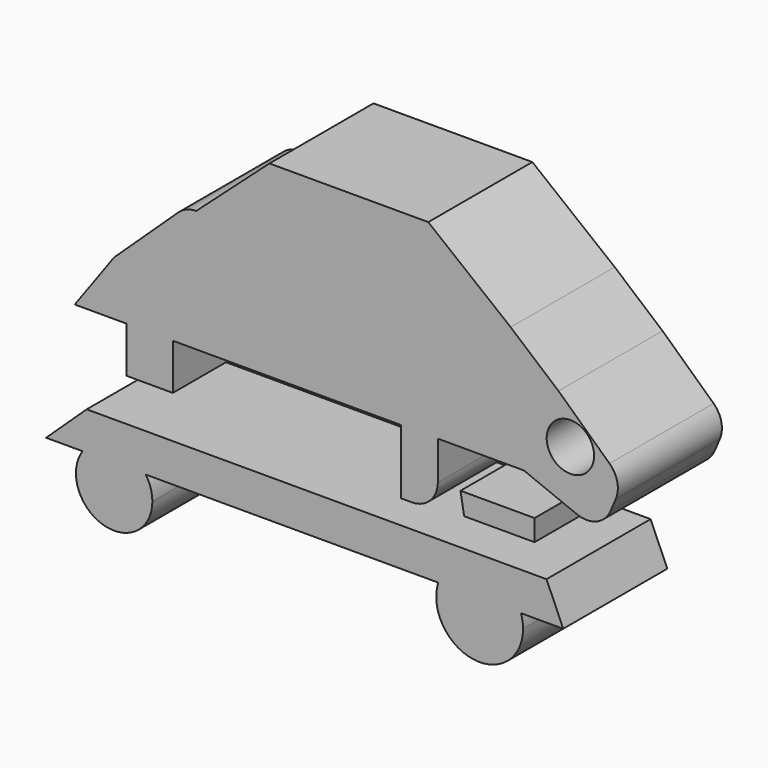
from build123d import *

# Parameters (mm, degrees)
F0_R     = 5.7856185804
F1_DEPTH = 31.75


with BuildPart() as f1:
    # F0 (on Front) → F1 (new body)
    with BuildSketch(Plane.XZ):
        Polygon((-18.945902586, 32.4995070696), (-36.8299595613, 16.4683610201), (-21.8606572598, 16.4683610201), align=None)
        with BuildLine():
            Line((-21.8606572598, 16.4683610201), (-36.8299595613, 16.4683610201))
            ThreePointArc((-36.8299595613, 16.4683610201), (-39.1716298113, 16.0208249497), (-41.1832270213, 14.7412997414))
            Line((-41.1832270213, 14.7412997414), (-56.8377040327, 0))
            Line((-56.8377040327, 0), (-31.4793474972, 0))
            Line((-31.4793474972, 0), (-21.8606572598, 16.4683610201))
        make_face()
        Polygon((-18.945902586, 32.4995070696), (-21.8606572598, 16.4683610201), (0, 16.4683610201), (0, 32.4995070696), align=None)
        Polygon((0, 32.4995070696), (0, 16.4683610201), (18.9459007233, 16.4683610201), (19.8203269392, 32.4995070696), align=None)
        Polygon((-38.1832793355, -13.2621303201), (-31.4793474972, 0), (-56.8377040327, 0), (-66.4563924074, -13.2621303201), (-53.8759827614, -13.2621303201), (-53.8759827614, -24.4669094682), (-42.5122864544, -24.4669094682), (-42.5122864544, -13.2621303201), align=None)
        Polygon((-5.5380342528, 0), (-31.4793474972, 0), (-38.1832793355, -13.2621303201), (-11.6590168327, -13.2621303201), align=None)
        Polygon((19.8203269392, 32.4995070696), (18.9459007233, 16.4683610201), (39.9321317673, 16.4683610201), align=None)
        Polygon((39.9321317673, 16.4683610201), (18.9459007233, 16.4683610201), (14.8652456701, 0), (37.6003272831, 0), align=None)
        Polygon((14.8652456701, 0), (-5.5380342528, 0), (-11.6590168327, -13.2621303201), (13.1163932383, -13.2621303201), align=None)
        Polygon((51.5911467373, 6.5581966192), (39.9321317673, 16.4683610201), (37.6003272831, 0), (47.0716502985, -4.0392414176), align=None)
        with BuildLine():
            Line((37.6003272831, 0), (14.8652456701, 0))
            Line((14.8652456701, 0), (13.1163932383, -13.2621303201))
            Line((13.1163932383, -13.2621303201), (13.1163932383, -29.0018040687))
            Line((13.1163932383, -29.0018040687), (15.8021295607, -29.0018040687))
            ThreePointArc((15.8021295607, -29.0018040687), (20.2922576212, -27.1419321292), (22.1521295607, -22.6518040687))
            Line((22.1521295607, -22.6518040687), (22.1521295607, -13.2621303201))
            Line((22.1521295607, -13.2621303201), (37.6003272831, -13.2621303201))
            Line((37.6003272831, -13.2621303201), (37.6003272831, 0))
        make_face()
        with BuildLine():
            Line((64.0501111657, -4.9778790706), (51.5911467373, 6.5581966192))
            Line((51.5911467373, 6.5581966192), (47.0716502985, -4.0392414176))
            Line((47.0716502985, -4.0392414176), (43.138358742, -13.2621303201))
            Line((43.138358742, -13.2621303201), (56.1124610001, -18.4747663982))
            ThreePointArc((56.1124610001, -18.4747663982), (60.9105624975, -18.4488796975), (64.3207964297, -15.0735645081))
            Line((64.3207964297, -15.0735645081), (65.5768751944, -12.1282768949))
            ThreePointArc((65.5768751944, -12.1282768949), (65.9458865804, -8.3112875884), (64.0501111657, -4.9778790706))
        make_face()
        with Locations((54.5058995485, -4.5178690925)):
            Circle(F0_R, mode=Mode.SUBTRACT)
        Polygon((47.0716502985, -4.0392414176), (37.6003272831, 0), (37.6003272831, -13.2621303201), (43.138358742, -13.2621303201), align=None)
        Polygon((0, 16.4683610201), (-21.8606572598, 16.4683610201), (-31.4793474972, 0), (-5.5380342528, 0), align=None)
        Polygon((18.9459007233, 16.4683610201), (0, 16.4683610201), (-5.5380342528, 0), (14.8652456701, 0), align=None)
    extrude(amount=F1_DEPTH)


with BuildPart() as f1b:
    # F0 (on Front) → F1, piece 2 (new body)
    with BuildSketch(Plane.XZ):
        with BuildLine():
            Line((48.6763902009, -34.8313115537), (-63.5416433215, -34.8313115537))
            Line((-63.5416433215, -34.8313115537), (-73.4518021345, -44.1585220397))
            Line((-73.4518021345, -44.1585220397), (-64.5494128515, -44.1585220397))
            ThreePointArc((-64.5494128515, -44.1585220397), (-56.8377040327, -40.0778725743), (-49.1259952139, -44.1585220397))
            Line((-49.1259952139, -44.1585220397), (22.256773577, -44.1585220397))
            ThreePointArc((22.256773577, -44.1585220397), (32.3537737131, -36.7709183512), (42.4507738492, -44.1585220397))
            Line((42.4507738492, -44.1585220397), (52.7570471168, -44.1585220397))
            Line((52.7570471168, -44.1585220397), (48.6763902009, -34.8313115537))
        make_face()
        with BuildLine():
            ThreePointArc((-49.1259952139, -44.1585220397), (-56.8377040327, -40.0778725743), (-64.5494128515, -44.1585220397))
            Line((-64.5494128515, -44.1585220397), (-49.1259952139, -44.1585220397))
        make_face()
        with BuildLine():
            Line((-49.1259952139, -44.1585220397), (-64.5494128515, -44.1585220397))
            ThreePointArc((-64.5494128515, -44.1585220397), (-59.5825286254, -58.3192736239), (-47.5104935467, -49.4050830603))
            ThreePointArc((-47.5104935467, -49.4050830603), (-47.9235134691, -46.6602584675), (-49.1259952139, -44.1585220397))
        make_face()
        with BuildLine():
            ThreePointArc((42.9476081015, -47.3647527397), (42.8226627256, -45.7425043327), (42.4507738492, -44.1585220397))
            Line((42.4507738492, -44.1585220397), (22.256773577, -44.1585220397))
            ThreePointArc((22.256773577, -44.1585220397), (30.7315253061, -57.8336417521), (42.9476081015, -47.3647527397))
        make_face()
        with BuildLine():
            Line((22.256773577, -44.1585220397), (42.4507738492, -44.1585220397))
            ThreePointArc((42.4507738492, -44.1585220397), (32.3537737131, -36.7709183512), (22.256773577, -44.1585220397))
        make_face()
    extrude(amount=F1_DEPTH)


with BuildPart() as f1c:
    # F0 (on Front) → F1, piece 3 (new body)
    with BuildSketch(Plane.XZ):
        Polygon((45.7616373897, -22.6518040687), (27.6901666075, -22.6518040687), (28.5645928234, -27.8359018266), (45.7616373897, -27.8359018266), align=None)
    extrude(amount=F1_DEPTH)


solid = Compound([f1.part, f1b.part, f1c.part])
